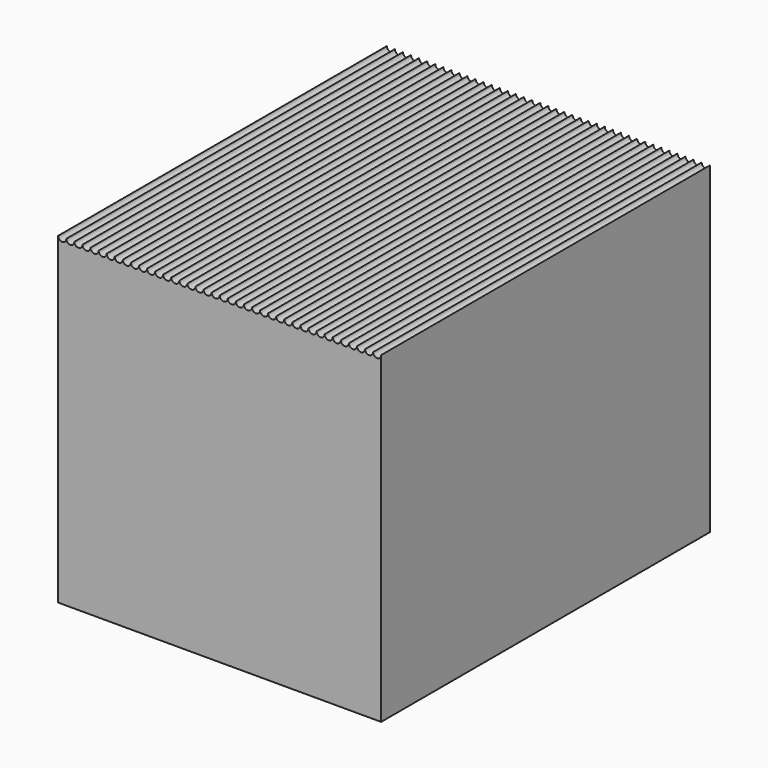
from build123d import *

# Parameters (mm, degrees)
F0_W     = 100
F0_H     = 100
F1_DEPTH = 63.6
F2_R     = 1.25
F3_DEPTH = 144.2


with BuildPart() as f1:
    # F0 (on Front) → F1 (new body, symmetric)
    with BuildSketch(Plane.XZ):
        Rectangle(F0_W, F0_H)
    extrude(amount=F1_DEPTH, both=True)

    # F2 (on face) → F3 (cut)
    with BuildSketch(Plane.XZ.offset(63.6)):
        with Locations((-48.75, 50)):
            Circle(F2_R)
        with BuildLine():
            ThreePointArc((50, 50), (48.75, 51.25), (47.5, 50))
            ThreePointArc((47.5, 50), (48.75, 48.75), (50, 50))
        make_face()
        with BuildLine():
            ThreePointArc((47.5, 50), (46.25, 51.25), (45, 50))
            ThreePointArc((45, 50), (46.25, 48.75), (47.5, 50))
        make_face()
        with BuildLine():
            ThreePointArc((45, 50), (43.75, 51.25), (42.5, 50))
            ThreePointArc((42.5, 50), (43.75, 48.75), (45, 50))
        make_face()
        with BuildLine():
            ThreePointArc((42.5, 50), (41.25, 51.25), (40, 50))
            ThreePointArc((40, 50), (41.25, 48.75), (42.5, 50))
        make_face()
        with BuildLine():
            ThreePointArc((40, 50), (38.75, 51.25), (37.5, 50))
            ThreePointArc((37.5, 50), (38.75, 48.75), (40, 50))
        make_face()
        with BuildLine():
            ThreePointArc((37.5, 50), (36.25, 51.25), (35, 50))
            ThreePointArc((35, 50), (36.25, 48.75), (37.5, 50))
        make_face()
        with BuildLine():
            ThreePointArc((35, 50), (33.75, 51.25), (32.5, 50))
            ThreePointArc((32.5, 50), (33.75, 48.75), (35, 50))
        make_face()
        with BuildLine():
            ThreePointArc((32.5, 50), (31.25, 51.25), (30, 50))
            ThreePointArc((30, 50), (31.25, 48.75), (32.5, 50))
        make_face()
        with BuildLine():
            ThreePointArc((30, 50), (28.75, 51.25), (27.5, 50))
            ThreePointArc((27.5, 50), (28.75, 48.75), (30, 50))
        make_face()
        with BuildLine():
            ThreePointArc((27.5, 50), (26.25, 51.25), (25, 50))
            ThreePointArc((25, 50), (26.25, 48.75), (27.5, 50))
        make_face()
        with BuildLine():
            ThreePointArc((25, 50), (23.75, 51.25), (22.5, 50))
            ThreePointArc((22.5, 50), (23.75, 48.75), (25, 50))
        make_face()
        with BuildLine():
            ThreePointArc((22.5, 50), (21.25, 51.25), (20, 50))
            ThreePointArc((20, 50), (21.25, 48.75), (22.5, 50))
        make_face()
        with BuildLine():
            ThreePointArc((20, 50), (18.75, 51.25), (17.5, 50))
            ThreePointArc((17.5, 50), (18.75, 48.75), (20, 50))
        make_face()
        with BuildLine():
            ThreePointArc((17.5, 50), (16.25, 51.25), (15, 50))
            ThreePointArc((15, 50), (16.25, 48.75), (17.5, 50))
        make_face()
        with BuildLine():
            ThreePointArc((15, 50), (13.75, 51.25), (12.5, 50))
            ThreePointArc((12.5, 50), (13.75, 48.75), (15, 50))
        make_face()
        with BuildLine():
            ThreePointArc((12.5, 50), (11.25, 51.25), (10, 50))
            ThreePointArc((10, 50), (11.25, 48.75), (12.5, 50))
        make_face()
        with BuildLine():
            ThreePointArc((10, 50), (8.75, 51.25), (7.5, 50))
            ThreePointArc((7.5, 50), (8.75, 48.75), (10, 50))
        make_face()
        with BuildLine():
            ThreePointArc((7.5, 50), (6.25, 51.25), (5, 50))
            ThreePointArc((5, 50), (6.25, 48.75), (7.5, 50))
        make_face()
        with BuildLine():
            ThreePointArc((5, 50), (3.75, 51.25), (2.5, 50))
            ThreePointArc((2.5, 50), (3.75, 48.75), (5, 50))
        make_face()
        with BuildLine():
            ThreePointArc((2.5, 50), (1.25, 51.25), (0, 50))
            ThreePointArc((0, 50), (1.25, 48.75), (2.5, 50))
        make_face()
        with BuildLine():
            ThreePointArc((0, 50), (-1.25, 51.25), (-2.5, 50))
            ThreePointArc((-2.5, 50), (-1.25, 48.75), (0, 50))
        make_face()
        with BuildLine():
            ThreePointArc((-2.5, 50), (-3.75, 51.25), (-5, 50))
            ThreePointArc((-5, 50), (-3.75, 48.75), (-2.5, 50))
        make_face()
        with BuildLine():
            ThreePointArc((-5, 50), (-6.25, 51.25), (-7.5, 50))
            ThreePointArc((-7.5, 50), (-6.25, 48.75), (-5, 50))
        make_face()
        with BuildLine():
            ThreePointArc((-7.5, 50), (-8.75, 51.25), (-10, 50))
            ThreePointArc((-10, 50), (-8.75, 48.75), (-7.5, 50))
        make_face()
        with BuildLine():
            ThreePointArc((-10, 50), (-11.25, 51.25), (-12.5, 50))
            ThreePointArc((-12.5, 50), (-11.25, 48.75), (-10, 50))
        make_face()
        with BuildLine():
            ThreePointArc((-12.5, 50), (-13.75, 51.25), (-15, 50))
            ThreePointArc((-15, 50), (-13.75, 48.75), (-12.5, 50))
        make_face()
        with BuildLine():
            ThreePointArc((-15, 50), (-16.25, 51.25), (-17.5, 50))
            ThreePointArc((-17.5, 50), (-16.25, 48.75), (-15, 50))
        make_face()
        with BuildLine():
            ThreePointArc((-17.5, 50), (-18.75, 51.25), (-20, 50))
            ThreePointArc((-20, 50), (-18.75, 48.75), (-17.5, 50))
        make_face()
        with BuildLine():
            ThreePointArc((-20, 50), (-21.25, 51.25), (-22.5, 50))
            ThreePointArc((-22.5, 50), (-21.25, 48.75), (-20, 50))
        make_face()
        with BuildLine():
            ThreePointArc((-22.5, 50), (-23.75, 51.25), (-25, 50))
            ThreePointArc((-25, 50), (-23.75, 48.75), (-22.5, 50))
        make_face()
        with BuildLine():
            ThreePointArc((-25, 50), (-26.25, 51.25), (-27.5, 50))
            ThreePointArc((-27.5, 50), (-26.25, 48.75), (-25, 50))
        make_face()
        with BuildLine():
            ThreePointArc((-27.5, 50), (-28.75, 51.25), (-30, 50))
            ThreePointArc((-30, 50), (-28.75, 48.75), (-27.5, 50))
        make_face()
        with BuildLine():
            ThreePointArc((-30, 50), (-31.25, 51.25), (-32.5, 50))
            ThreePointArc((-32.5, 50), (-31.25, 48.75), (-30, 50))
        make_face()
        with BuildLine():
            ThreePointArc((-32.5, 50), (-33.75, 51.25), (-35, 50))
            ThreePointArc((-35, 50), (-33.75, 48.75), (-32.5, 50))
        make_face()
        with BuildLine():
            ThreePointArc((-35, 50), (-36.25, 51.25), (-37.5, 50))
            ThreePointArc((-37.5, 50), (-36.25, 48.75), (-35, 50))
        make_face()
        with BuildLine():
            ThreePointArc((-37.5, 50), (-38.75, 51.25), (-40, 50))
            ThreePointArc((-40, 50), (-38.75, 48.75), (-37.5, 50))
        make_face()
        with BuildLine():
            ThreePointArc((-40, 50), (-41.25, 51.25), (-42.5, 50))
            ThreePointArc((-42.5, 50), (-41.25, 48.75), (-40, 50))
        make_face()
        with BuildLine():
            ThreePointArc((-42.5, 50), (-43.75, 51.25), (-45, 50))
            ThreePointArc((-45, 50), (-43.75, 48.75), (-42.5, 50))
        make_face()
        with BuildLine():
            ThreePointArc((-45, 50), (-46.25, 51.25), (-47.5, 50))
            ThreePointArc((-47.5, 50), (-46.25, 48.75), (-45, 50))
        make_face()
    extrude(amount=-F3_DEPTH, mode=Mode.SUBTRACT)


solid = f1.part
